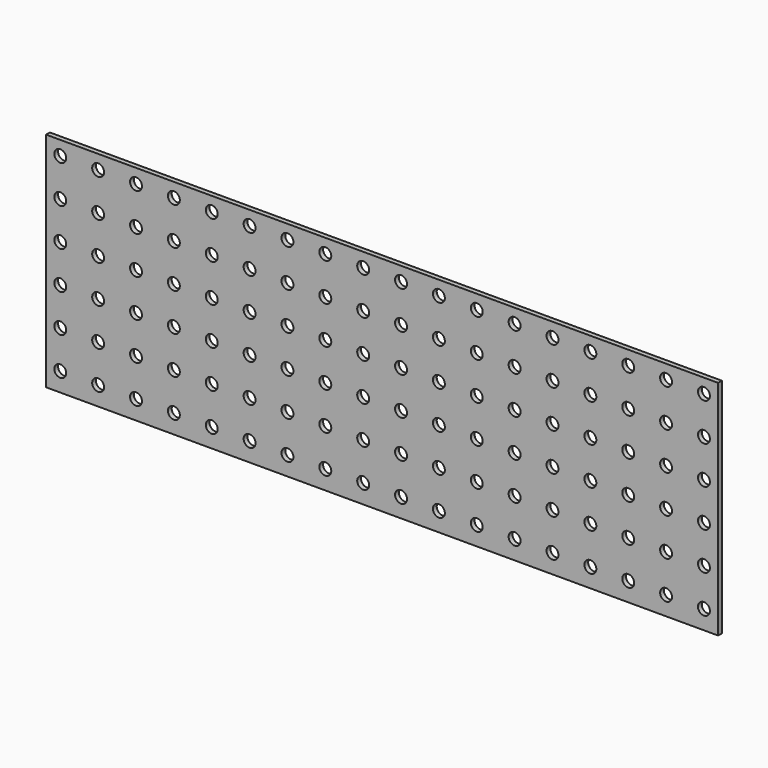
from build123d import *

# Parameters (mm, degrees)
F0_W     = 901.7
F0_H     = 298.45
F0_R     = 8.001
F1_DEPTH = 6.35


with BuildPart() as f1:
    # F0 (on Front) → F1 (new body)
    with BuildSketch(Plane.XZ):
        Rectangle(F0_W, F0_H)
        with Locations((-431.8, -123.825)):
            Circle(F0_R, mode=Mode.SUBTRACT)
        with Locations((-381, -123.825)):
            Circle(F0_R, mode=Mode.SUBTRACT)
        with Locations((-330.2, -123.825)):
            Circle(F0_R, mode=Mode.SUBTRACT)
        with Locations((-279.4, -123.825)):
            Circle(F0_R, mode=Mode.SUBTRACT)
        with Locations((-228.6, -123.825)):
            Circle(F0_R, mode=Mode.SUBTRACT)
        with Locations((-177.8, -123.825)):
            Circle(F0_R, mode=Mode.SUBTRACT)
        with Locations((-127, -123.825)):
            Circle(F0_R, mode=Mode.SUBTRACT)
        with Locations((-76.2, -123.825)):
            Circle(F0_R, mode=Mode.SUBTRACT)
        with Locations((-25.4, -123.825)):
            Circle(F0_R, mode=Mode.SUBTRACT)
        with Locations((-431.8, -73.025)):
            Circle(F0_R, mode=Mode.SUBTRACT)
        with Locations((-381, -73.025)):
            Circle(F0_R, mode=Mode.SUBTRACT)
        with Locations((-330.2, -73.025)):
            Circle(F0_R, mode=Mode.SUBTRACT)
        with Locations((-279.4, -73.025)):
            Circle(F0_R, mode=Mode.SUBTRACT)
        with Locations((-228.6, -73.025)):
            Circle(F0_R, mode=Mode.SUBTRACT)
        with Locations((-431.8, -22.225)):
            Circle(F0_R, mode=Mode.SUBTRACT)
        with Locations((-381, -22.225)):
            Circle(F0_R, mode=Mode.SUBTRACT)
        with Locations((-330.2, -22.225)):
            Circle(F0_R, mode=Mode.SUBTRACT)
        with Locations((-279.4, -22.225)):
            Circle(F0_R, mode=Mode.SUBTRACT)
        with Locations((-228.6, -22.225)):
            Circle(F0_R, mode=Mode.SUBTRACT)
        with Locations((-177.8, -73.025)):
            Circle(F0_R, mode=Mode.SUBTRACT)
        with Locations((-127, -73.025)):
            Circle(F0_R, mode=Mode.SUBTRACT)
        with Locations((-76.2, -73.025)):
            Circle(F0_R, mode=Mode.SUBTRACT)
        with Locations((-25.4, -73.025)):
            Circle(F0_R, mode=Mode.SUBTRACT)
        with Locations((-177.8, -22.225)):
            Circle(F0_R, mode=Mode.SUBTRACT)
        with Locations((-127, -22.225)):
            Circle(F0_R, mode=Mode.SUBTRACT)
        with Locations((-76.2, -22.225)):
            Circle(F0_R, mode=Mode.SUBTRACT)
        with Locations((-25.4, -22.225)):
            Circle(F0_R, mode=Mode.SUBTRACT)
        with Locations((25.4, -123.825)):
            Circle(F0_R, mode=Mode.SUBTRACT)
        with Locations((76.2, -123.825)):
            Circle(F0_R, mode=Mode.SUBTRACT)
        with Locations((127, -123.825)):
            Circle(F0_R, mode=Mode.SUBTRACT)
        with Locations((177.8, -123.825)):
            Circle(F0_R, mode=Mode.SUBTRACT)
        with Locations((228.6, -123.825)):
            Circle(F0_R, mode=Mode.SUBTRACT)
        with Locations((279.4, -123.825)):
            Circle(F0_R, mode=Mode.SUBTRACT)
        with Locations((330.2, -123.825)):
            Circle(F0_R, mode=Mode.SUBTRACT)
        with Locations((381, -123.825)):
            Circle(F0_R, mode=Mode.SUBTRACT)
        with Locations((431.8, -123.825)):
            Circle(F0_R, mode=Mode.SUBTRACT)
        with Locations((25.4, -73.025)):
            Circle(F0_R, mode=Mode.SUBTRACT)
        with Locations((76.2, -73.025)):
            Circle(F0_R, mode=Mode.SUBTRACT)
        with Locations((127, -73.025)):
            Circle(F0_R, mode=Mode.SUBTRACT)
        with Locations((177.8, -73.025)):
            Circle(F0_R, mode=Mode.SUBTRACT)
        with Locations((25.4, -22.225)):
            Circle(F0_R, mode=Mode.SUBTRACT)
        with Locations((76.2, -22.225)):
            Circle(F0_R, mode=Mode.SUBTRACT)
        with Locations((127, -22.225)):
            Circle(F0_R, mode=Mode.SUBTRACT)
        with Locations((177.8, -22.225)):
            Circle(F0_R, mode=Mode.SUBTRACT)
        with Locations((228.6, -73.025)):
            Circle(F0_R, mode=Mode.SUBTRACT)
        with Locations((279.4, -73.025)):
            Circle(F0_R, mode=Mode.SUBTRACT)
        with Locations((330.2, -73.025)):
            Circle(F0_R, mode=Mode.SUBTRACT)
        with Locations((381, -73.025)):
            Circle(F0_R, mode=Mode.SUBTRACT)
        with Locations((431.8, -73.025)):
            Circle(F0_R, mode=Mode.SUBTRACT)
        with Locations((228.6, -22.225)):
            Circle(F0_R, mode=Mode.SUBTRACT)
        with Locations((279.4, -22.225)):
            Circle(F0_R, mode=Mode.SUBTRACT)
        with Locations((330.2, -22.225)):
            Circle(F0_R, mode=Mode.SUBTRACT)
        with Locations((381, -22.225)):
            Circle(F0_R, mode=Mode.SUBTRACT)
        with Locations((431.8, -22.225)):
            Circle(F0_R, mode=Mode.SUBTRACT)
        with Locations((-431.8, 28.575)):
            Circle(F0_R, mode=Mode.SUBTRACT)
        with Locations((-381, 28.575)):
            Circle(F0_R, mode=Mode.SUBTRACT)
        with Locations((-330.2, 28.575)):
            Circle(F0_R, mode=Mode.SUBTRACT)
        with Locations((-279.4, 28.575)):
            Circle(F0_R, mode=Mode.SUBTRACT)
        with Locations((-228.6, 28.575)):
            Circle(F0_R, mode=Mode.SUBTRACT)
        with Locations((-177.8, 28.575)):
            Circle(F0_R, mode=Mode.SUBTRACT)
        with Locations((-127, 28.575)):
            Circle(F0_R, mode=Mode.SUBTRACT)
        with Locations((-76.2, 28.575)):
            Circle(F0_R, mode=Mode.SUBTRACT)
        with Locations((-25.4, 28.575)):
            Circle(F0_R, mode=Mode.SUBTRACT)
        with Locations((-431.8, 79.375)):
            Circle(F0_R, mode=Mode.SUBTRACT)
        with Locations((-381, 79.375)):
            Circle(F0_R, mode=Mode.SUBTRACT)
        with Locations((-330.2, 79.375)):
            Circle(F0_R, mode=Mode.SUBTRACT)
        with Locations((-279.4, 79.375)):
            Circle(F0_R, mode=Mode.SUBTRACT)
        with Locations((-228.6, 79.375)):
            Circle(F0_R, mode=Mode.SUBTRACT)
        with Locations((-431.8, 130.175)):
            Circle(F0_R, mode=Mode.SUBTRACT)
        with Locations((-381, 130.175)):
            Circle(F0_R, mode=Mode.SUBTRACT)
        with Locations((-330.2, 130.175)):
            Circle(F0_R, mode=Mode.SUBTRACT)
        with Locations((-279.4, 130.175)):
            Circle(F0_R, mode=Mode.SUBTRACT)
        with Locations((-228.6, 130.175)):
            Circle(F0_R, mode=Mode.SUBTRACT)
        with Locations((-177.8, 79.375)):
            Circle(F0_R, mode=Mode.SUBTRACT)
        with Locations((-127, 79.375)):
            Circle(F0_R, mode=Mode.SUBTRACT)
        with Locations((-76.2, 79.375)):
            Circle(F0_R, mode=Mode.SUBTRACT)
        with Locations((-25.4, 79.375)):
            Circle(F0_R, mode=Mode.SUBTRACT)
        with Locations((-177.8, 130.175)):
            Circle(F0_R, mode=Mode.SUBTRACT)
        with Locations((-127, 130.175)):
            Circle(F0_R, mode=Mode.SUBTRACT)
        with Locations((-76.2, 130.175)):
            Circle(F0_R, mode=Mode.SUBTRACT)
        with Locations((-25.4, 130.175)):
            Circle(F0_R, mode=Mode.SUBTRACT)
        with Locations((25.4, 28.575)):
            Circle(F0_R, mode=Mode.SUBTRACT)
        with Locations((76.2, 28.575)):
            Circle(F0_R, mode=Mode.SUBTRACT)
        with Locations((127, 28.575)):
            Circle(F0_R, mode=Mode.SUBTRACT)
        with Locations((177.8, 28.575)):
            Circle(F0_R, mode=Mode.SUBTRACT)
        with Locations((228.6, 28.575)):
            Circle(F0_R, mode=Mode.SUBTRACT)
        with Locations((279.4, 28.575)):
            Circle(F0_R, mode=Mode.SUBTRACT)
        with Locations((330.2, 28.575)):
            Circle(F0_R, mode=Mode.SUBTRACT)
        with Locations((381, 28.575)):
            Circle(F0_R, mode=Mode.SUBTRACT)
        with Locations((431.8, 28.575)):
            Circle(F0_R, mode=Mode.SUBTRACT)
        with Locations((25.4, 79.375)):
            Circle(F0_R, mode=Mode.SUBTRACT)
        with Locations((76.2, 79.375)):
            Circle(F0_R, mode=Mode.SUBTRACT)
        with Locations((127, 79.375)):
            Circle(F0_R, mode=Mode.SUBTRACT)
        with Locations((177.8, 79.375)):
            Circle(F0_R, mode=Mode.SUBTRACT)
        with Locations((25.4, 130.175)):
            Circle(F0_R, mode=Mode.SUBTRACT)
        with Locations((76.2, 130.175)):
            Circle(F0_R, mode=Mode.SUBTRACT)
        with Locations((127, 130.175)):
            Circle(F0_R, mode=Mode.SUBTRACT)
        with Locations((177.8, 130.175)):
            Circle(F0_R, mode=Mode.SUBTRACT)
        with Locations((228.6, 79.375)):
            Circle(F0_R, mode=Mode.SUBTRACT)
        with Locations((279.4, 79.375)):
            Circle(F0_R, mode=Mode.SUBTRACT)
        with Locations((330.2, 79.375)):
            Circle(F0_R, mode=Mode.SUBTRACT)
        with Locations((381, 79.375)):
            Circle(F0_R, mode=Mode.SUBTRACT)
        with Locations((431.8, 79.375)):
            Circle(F0_R, mode=Mode.SUBTRACT)
        with Locations((228.6, 130.175)):
            Circle(F0_R, mode=Mode.SUBTRACT)
        with Locations((279.4, 130.175)):
            Circle(F0_R, mode=Mode.SUBTRACT)
        with Locations((330.2, 130.175)):
            Circle(F0_R, mode=Mode.SUBTRACT)
        with Locations((381, 130.175)):
            Circle(F0_R, mode=Mode.SUBTRACT)
        with Locations((431.8, 130.175)):
            Circle(F0_R, mode=Mode.SUBTRACT)
    extrude(amount=F1_DEPTH)


solid = f1.part
